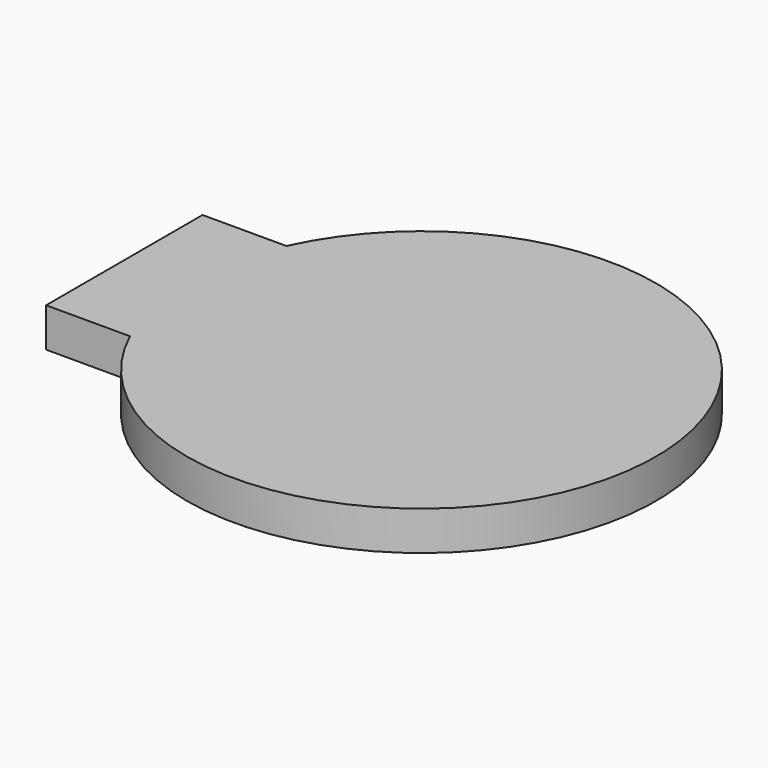
from build123d import *

# Parameters (mm, degrees)
F1_DEPTH = 0.5


with BuildPart() as f1:
    # F0 (on Top) → F1 (new body)
    with BuildSketch(Plane.XY):
        with BuildLine():
            Line((-3, -1.25), (-2.727178, -1.25))
            ThreePointArc((-2.727178, -1.25), (3, 0), (-2.727178, 1.25))
            Line((-2.727178, 1.25), (-3, 1.25))
            Line((-3, 1.25), (-3.8, 1.25))
            Line((-3.8, 1.25), (-3.8, -1.25))
            Line((-3.8, -1.25), (-3, -1.25))
        make_face()
    extrude(amount=F1_DEPTH)


solid = f1.part
